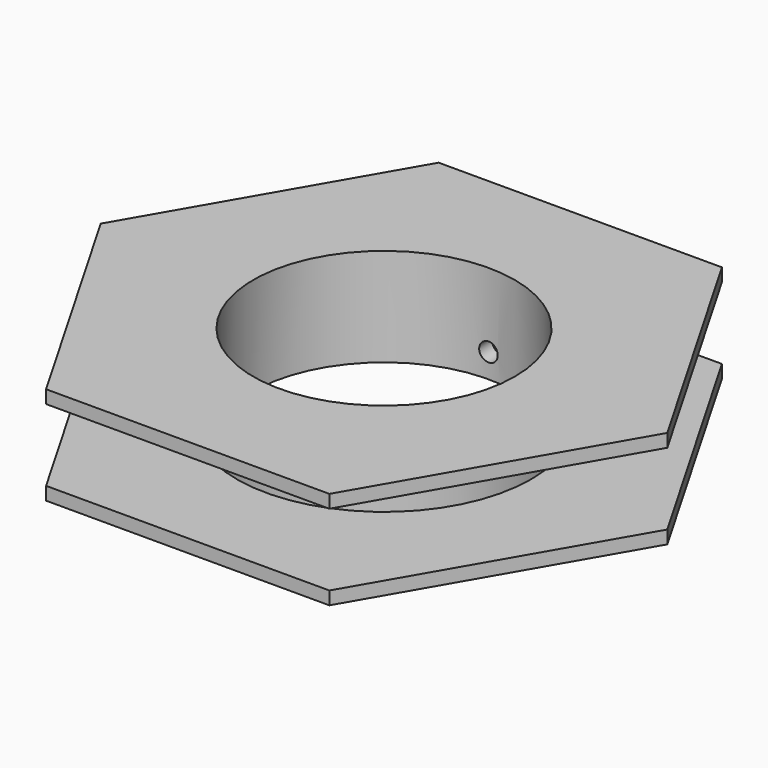
from build123d import *

# Parameters (mm, degrees)
F1_DEPTH = 7.62
F2_R     = 10.16
F3_DEPTH = 25.4
F5_R     = 11.43
F6_DEPTH = 5.588
F7_R     = 0.718054
F8_DEPTH = 25.4


with BuildPart() as f1:
    # F0 (on Top) → F1 (new body)
    with BuildSketch(Plane.XY):
        Polygon((10.998523, 19.05), (-10.998523, 19.05), (-21.997045, 0), (-10.998523, -19.05), (10.998523, -19.05), (21.997045, 0), align=None)
    extrude(amount=F1_DEPTH)

    # F2 (on face) → F3 (cut)
    with BuildSketch(Plane(origin=(0, 0, 0), x_dir=(1, 0, 0), z_dir=(0, 0, -1))):
        Circle(F2_R)
    extrude(amount=-F3_DEPTH, mode=Mode.SUBTRACT)

    # F5 (on offset) → F6 (cut)
    with BuildSketch(Plane.XY.offset(1.016)):
        Polygon((10.998523, -19.05), (21.997045, 0), (10.998523, 19.05), (-10.998523, 19.05), (-21.997045, 0), (-10.998523, -19.05), align=None)
        Circle(F5_R, mode=Mode.SUBTRACT)
    extrude(amount=F6_DEPTH, mode=Mode.SUBTRACT)

    # F7 (on Front) → F8 (cut)
    with BuildSketch(Plane.XZ):
        with Locations((0, 1.871332)):
            Circle(F7_R)
    extrude(amount=-F8_DEPTH, mode=Mode.SUBTRACT)


solid = f1.part
